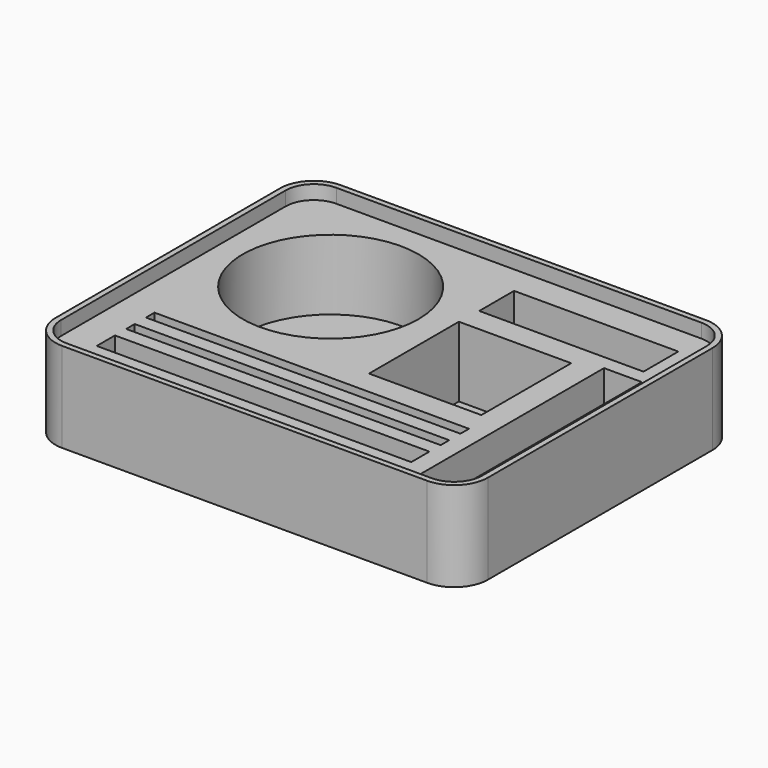
from build123d import *

# Parameters (mm, degrees)
F1_DEPTH = 32
F0_W     = 112
F0_H     = 8.1
F0_H_2   = 3.8
F0_W_2   = 13.5
F0_H_3   = 84
F0_R     = 31.3
F0_W_3   = 40
F0_H_4   = 40
F0_W_4   = 58.5
F0_H_5   = 15.5
F2_DEPTH = 27
F3_DEPTH = 2
F4_DEPTH = 8.1
F5_DEPTH = 10
F6_R     = 3
F7_DEPTH = 14.5
F8_DEPTH = 2


with BuildPart() as f1:
    # F0 (on Top) → F1 (new body)
    with BuildSketch(Plane.XY):
        with BuildLine():
            Line((65, 62), (-65, 62))
            ThreePointArc((-65, 62), (-73.4852813742, 58.4852813742), (-77, 50))
            Line((-77, 50), (-77, -50))
            ThreePointArc((-77, -50), (-73.4852813742, -58.4852813742), (-65, -62))
            Line((-65, -62), (65, -62))
            ThreePointArc((65, -62), (73.4852813742, -58.4852813742), (77, -50))
            Line((77, -50), (77, 50))
            ThreePointArc((77, 50), (73.4852813742, 58.4852813742), (65, 62))
        make_face()
        with BuildLine():
            ThreePointArc((-75, 50), (-72.0710678119, 57.0710678119), (-65, 60))
            Line((-65, 60), (65, 60))
            ThreePointArc((65, 60), (72.0710678119, 57.0710678119), (75, 50))
            Line((75, 50), (75, -50))
            ThreePointArc((75, -50), (72.0710678119, -57.0710678119), (65, -60))
            Line((65, -60), (-65, -60))
            ThreePointArc((-65, -60), (-72.0710678119, -57.0710678119), (-75, -50))
            Line((-75, -50), (-75, 50))
        make_face(mode=Mode.SUBTRACT)
    extrude(amount=F1_DEPTH)

    # F0 (on Top) → F2 (join)
    with BuildSketch(Plane.XY):
        with BuildLine():
            Line((65, 60), (-65, 60))
            ThreePointArc((-65, 60), (-72.0710678119, 57.0710678119), (-75, 50))
            Line((-75, 50), (-75, -50))
            ThreePointArc((-75, -50), (-72.0710678119, -57.0710678119), (-65, -60))
            Line((-65, -60), (65, -60))
            ThreePointArc((65, -60), (72.0710678119, -57.0710678119), (75, -50))
            Line((75, -50), (75, 50))
            ThreePointArc((75, 50), (72.0710678119, 57.0710678119), (65, 60))
        make_face()
        with Locations((-7.5, -44.45)):
            Rectangle(F0_W, F0_H, mode=Mode.SUBTRACT)
        with Locations((-7.5, -33.5)):
            Rectangle(F0_W, F0_H_2, mode=Mode.SUBTRACT)
        with Locations((-7.5, -24.7)):
            Rectangle(F0_W, F0_H_2, mode=Mode.SUBTRACT)
        with Locations((61.75, -12.8)):
            Rectangle(F0_W_2, F0_H_3, mode=Mode.SUBTRACT)
        with Locations((-35, 20)):
            Circle(F0_R, mode=Mode.SUBTRACT)
        with Locations((26.025, 5.8)):
            Rectangle(F0_W_3, F0_H_4, mode=Mode.SUBTRACT)
        with Locations((35.65, 42.15)):
            Rectangle(F0_W_4, F0_H_5, mode=Mode.SUBTRACT)
    extrude(amount=F2_DEPTH)

    # F0 (on Top) → F3 (join)
    with BuildSketch(Plane.XY):
        with Locations((-35, 20)):
            Circle(F0_R)
    extrude(amount=F3_DEPTH)

    # F0 (on Top) → F4 (join)
    with BuildSketch(Plane.XY):
        with Locations((35.65, 42.15)):
            Rectangle(F0_W_4, F0_H_5)
    extrude(amount=F4_DEPTH)

    # F0 (on Top) → F5 (join)
    with BuildSketch(Plane.XY):
        with Locations((61.75, -12.8)):
            Rectangle(F0_W_2, F0_H_3)
    extrude(amount=F5_DEPTH)

    # F6
    f6_edges = [f1.edges().sort_by_distance(p)[0] for p in [
        (55, -12.8, 10),
        (61.75, -54.8, 10),
        (68.5, -12.8, 10),
        (61.75, 29.2, 10),
    ]]
    fillet(f6_edges, radius=F6_R)

    # F0 (on Top) → F7 (join)
    with BuildSketch(Plane.XY):
        with Locations((-7.5, -44.45)):
            Rectangle(F0_W, F0_H)
        with Locations((-7.5, -33.5)):
            Rectangle(F0_W, F0_H_2)
        with Locations((-7.5, -24.7)):
            Rectangle(F0_W, F0_H_2)
    extrude(amount=F7_DEPTH)

    # F0 (on Top) → F8 (join)
    with BuildSketch(Plane.XY):
        with Locations((26.025, 5.8)):
            Rectangle(F0_W_3, F0_H_4)
    extrude(amount=F8_DEPTH)


solid = f1.part
